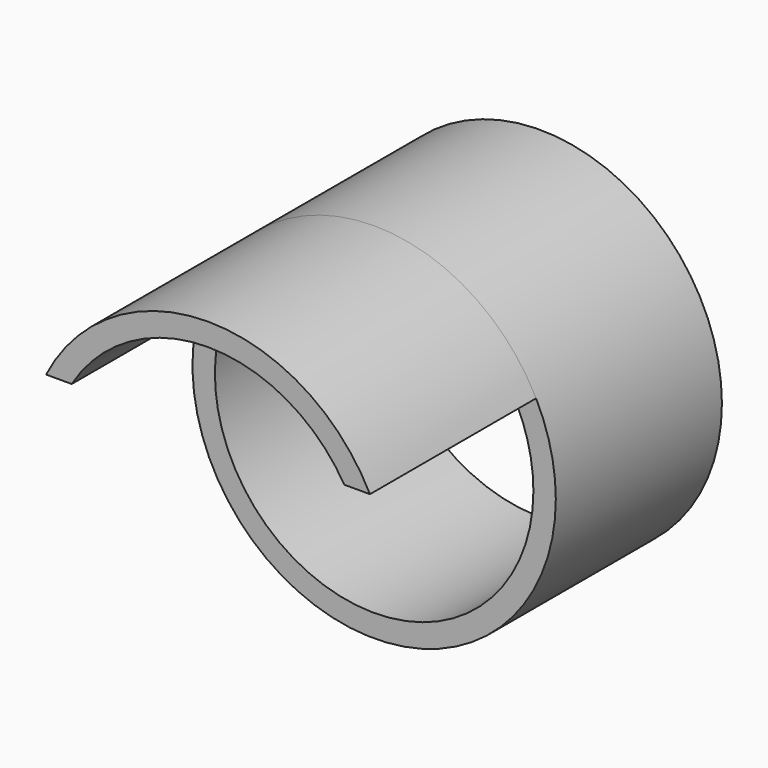
from build123d import *

# Parameters (mm, degrees)
F0_R     = 44.45
F0_R_2   = 38.9636
F1_DEPTH = 50.8
F3_DEPTH = 50.8


with BuildPart() as f1:
    # F0 (on Front) → F1 (new body)
    with BuildSketch(Plane.XZ):
        Circle(F0_R)
        Circle(F0_R_2, mode=Mode.SUBTRACT)
    extrude(amount=F1_DEPTH)

    # F2 (on face) → F3 (join)
    with BuildSketch(Plane.XZ.offset(50.8)):
        with BuildLine():
            Line((33.3481304372, 20.1510377228), (39.6199214877, 20.1510377228))
            ThreePointArc((39.6199214877, 20.1510377228), (0, 44.45), (-39.6199214877, 20.1510377228))
            Line((-39.6199214877, 20.1510377228), (-33.3481304372, 20.1510377228))
            ThreePointArc((-33.3481304372, 20.1510377228), (0, 38.9636), (33.3481304372, 20.1510377228))
        make_face()
    extrude(amount=F3_DEPTH)


solid = f1.part
